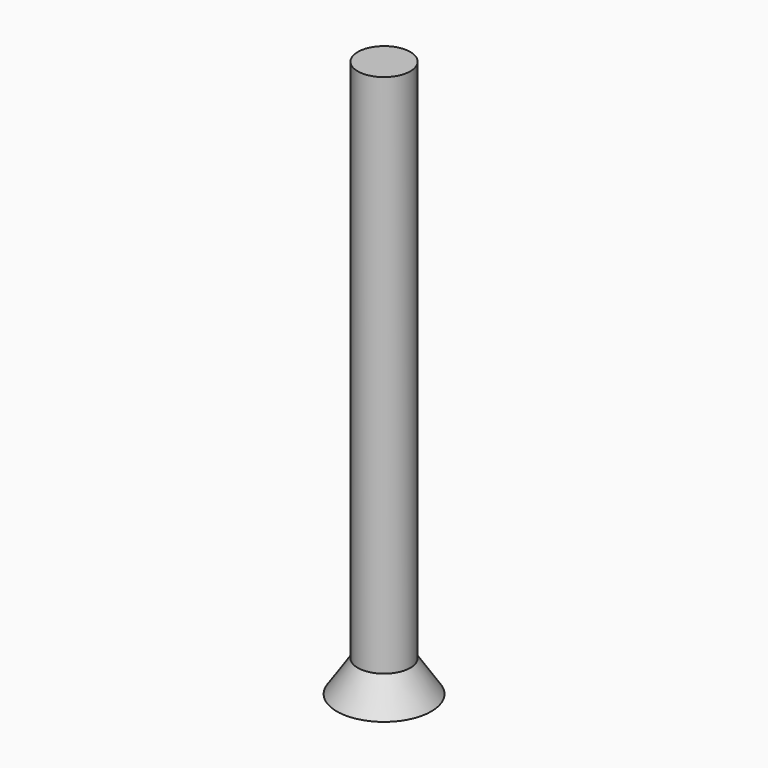
from build123d import *

# Parameters (mm, degrees)
CYLINDER_R     = 2.5
CYLINDER_DEPTH = 50


with BuildPart() as cone:
    # Cone → Cone (revolve)
    with BuildSketch(Plane(origin=(0, 0, -3), x_dir=(1, 0, 0), z_dir=(0, -1, 0))):
        Polygon((0, 0), (4.5, 0), (2.5, 3), (0, 3), align=None)
    revolve(axis=Axis((0, 0, -3), (0, 0, 1)))


with BuildPart() as obj1:
    # Cylinder → Cylinder (new body)
    with BuildSketch(Plane.XY):
        Circle(CYLINDER_R)
    extrude(amount=CYLINDER_DEPTH)

    # Fusion: union Cone
    add(cone.part)


solid = obj1.part
